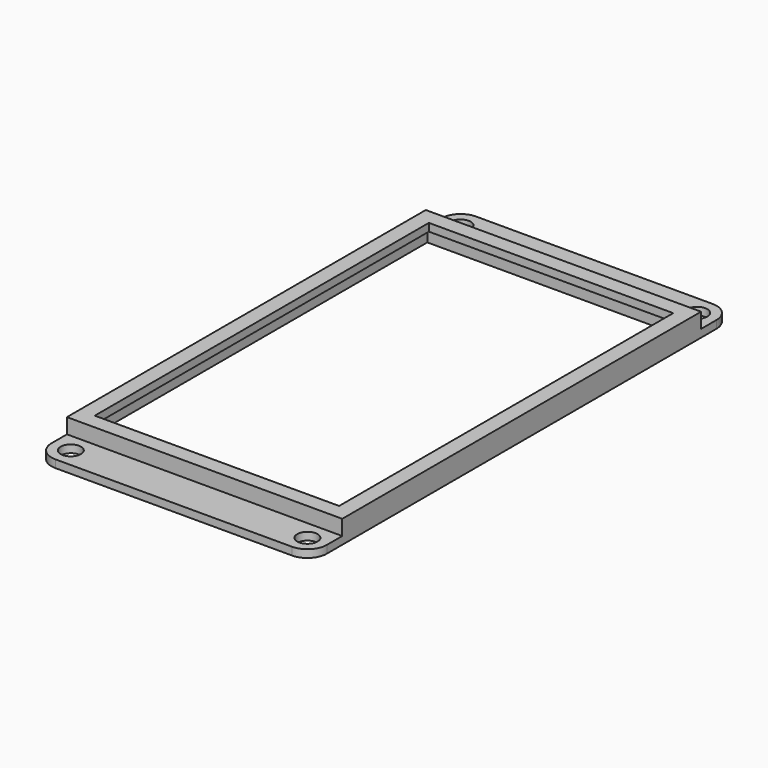
from build123d import *

# Parameters (mm, degrees)
F0_W     = 56.515
F0_H     = 92.075
F0_W_2   = 53.34
F0_H_2   = 88.9
F1_DEPTH = 1.524
F2_W     = 56.515
F2_H     = 107.95
F2_R     = 2.0828
F2_W_2   = 53.34
F2_H_2   = 88.9
F3_DEPTH = 1.5875
F4_W     = 56.515
F4_H     = 92.075
F4_W_2   = 50.165
F4_H_2   = 85.725
F5_DEPTH = 1.5875
F6_R     = 3.96875


with BuildPart() as f1:
    # F0 (on Top) → F1 (new body)
    with BuildSketch(Plane.XY):
        Rectangle(F0_W, F0_H)
        Rectangle(F0_W_2, F0_H_2, mode=Mode.SUBTRACT)
    extrude(amount=F1_DEPTH)

    # F2 (on face) → F3 (join)
    with BuildSketch(Plane(origin=(0, 0, 0), x_dir=(1, 0, 0), z_dir=(0, 0, -1))):
        Rectangle(F2_W, F2_H)
        with Locations((-24.28875, -50.00625)):
            Circle(F2_R, mode=Mode.SUBTRACT)
        with Locations((24.28875, -50.00625)):
            Circle(F2_R, mode=Mode.SUBTRACT)
        with Locations((-24.28875, 50.00625)):
            Circle(F2_R, mode=Mode.SUBTRACT)
        Rectangle(F2_W_2, F2_H_2, mode=Mode.SUBTRACT)
        with Locations((24.28875, 50.00625)):
            Circle(F2_R, mode=Mode.SUBTRACT)
    extrude(amount=F3_DEPTH)

    # F4 (on face) → F5 (join)
    with BuildSketch(Plane.XY.offset(1.524)):
        Rectangle(F4_W, F4_H)
        Rectangle(F4_W_2, F4_H_2, mode=Mode.SUBTRACT)
    extrude(amount=F5_DEPTH)

    # F6
    f6_edges = [f1.edges().sort_by_distance(p)[0] for p in [
        (-28.2575, -53.975, -0.79375),
        (28.2575, -53.975, -0.79375),
        (28.2575, 53.975, -0.79375),
        (-28.2575, 53.975, -0.79375),
    ]]
    fillet(f6_edges, radius=F6_R)


solid = f1.part
